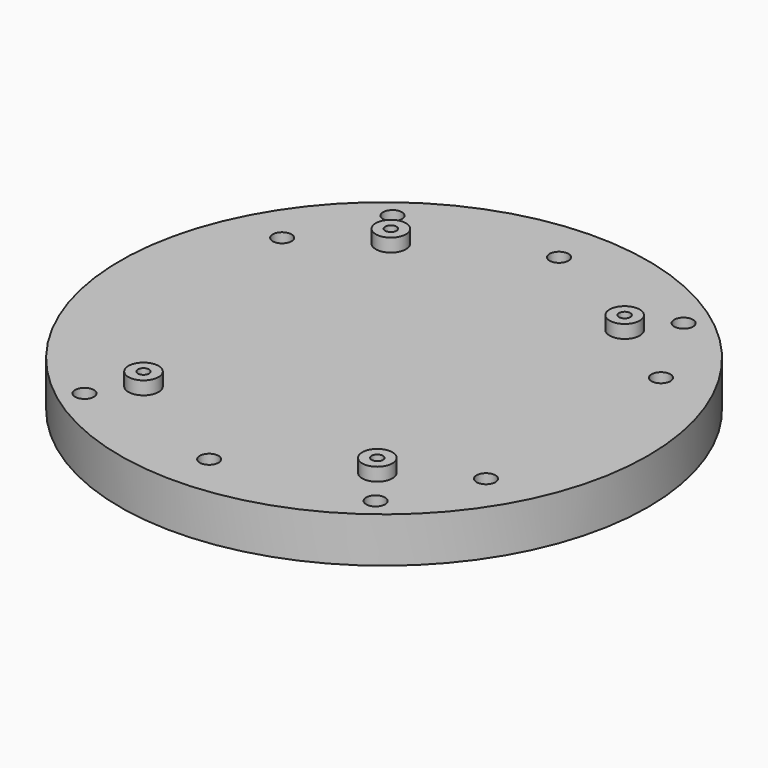
from build123d import *

# Parameters (mm, degrees)
SKETCH_R           = 70
SKETCH_R_2         = 2.5
PAD_DEPTH          = 12
SKETCH001_R        = 1.5
POCKET_DEPTH       = 15
SKETCH002_R        = 4
SKETCH002_R_2      = 1.5
PAD001_DEPTH       = 3.5
SKETCH003_R        = 2.5
POCKET001_DEPTH    = 15
POCKET002_DEPTH    = 5
POLARPATTERN_COUNT = 2


with BuildPart() as part:
    # Sketch → Pad (new body)
    with BuildSketch(Plane.XY):
        Circle(SKETCH_R)
        with Locations((38.6, 51.05)):
            Circle(SKETCH_R_2, mode=Mode.SUBTRACT)
        with Locations((-38.6, 51.05)):
            Circle(SKETCH_R_2, mode=Mode.SUBTRACT)
        with Locations((38.6, -51.05)):
            Circle(SKETCH_R_2, mode=Mode.SUBTRACT)
        with Locations((-38.6, -51.05)):
            Circle(SKETCH_R_2, mode=Mode.SUBTRACT)
    extrude(amount=PAD_DEPTH)

    # Sketch001 (on Face7 of Pad) → Pocket (cut)
    with BuildSketch(Plane.XY.offset(12)):
        with Locations((-31, 41)):
            Circle(SKETCH001_R)
        with Locations((31, 41)):
            Circle(SKETCH001_R)
        with Locations((31, -41)):
            Circle(SKETCH001_R)
        with Locations((-31, -41)):
            Circle(SKETCH001_R)
    extrude(amount=-POCKET_DEPTH, mode=Mode.SUBTRACT)

    # Sketch002 (on Face3 of Pocket) → Pad001 (join)
    with BuildSketch(Plane.XY.offset(12)):
        with Locations((-31, -41)):
            Circle(SKETCH002_R)
        with Locations((-31, -41)):
            Circle(SKETCH002_R_2, mode=Mode.SUBTRACT)
        with Locations((31, -41)):
            Circle(SKETCH002_R)
        with Locations((31, -41)):
            Circle(SKETCH002_R_2, mode=Mode.SUBTRACT)
        with Locations((31, 41)):
            Circle(SKETCH002_R)
        with Locations((31, 41)):
            Circle(SKETCH002_R_2, mode=Mode.SUBTRACT)
        with Locations((-31, 41)):
            Circle(SKETCH002_R)
        with Locations((-31, 41)):
            Circle(SKETCH002_R_2, mode=Mode.SUBTRACT)
    extrude(amount=PAD001_DEPTH)

    # Sketch003 (on Face3 of Pad001) → Pocket001 (cut)
    with BuildSketch(Plane.XY.offset(12)):
        with Locations((0, 58)):
            Circle(SKETCH003_R)
        with Locations((50.229473, 29)):
            Circle(SKETCH003_R)
        with Locations((50.229473, -29)):
            Circle(SKETCH003_R)
        with Locations((0, -58)):
            Circle(SKETCH003_R)
        with Locations((-50.229473, 29)):
            Circle(SKETCH003_R)
    extrude(amount=-POCKET001_DEPTH, mode=Mode.SUBTRACT)

    # Sketch004 (on Face2 of Pocket001) → Pocket002 (cut)
    with BuildSketch(Plane(origin=(0, 0, 0), x_dir=(1, 0, 0), z_dir=(0, 0, -1))):
        Polygon((-35.008085, 53.766274), (-39.156405, 55.518827), (-42.74832, 52.802553), (-42.191915, 48.333726), (-38.043595, 46.581173), (-34.45168, 49.297447), align=None)
        Polygon((-28.513289, 42.880497), (-31.385203, 44.093803), (-33.871914, 42.213306), (-33.486711, 39.119503), (-30.614797, 37.906197), (-28.128086, 39.786694), align=None)
        Polygon((-35.008085, -53.766274), (-34.45168, -49.297447), (-38.043595, -46.581173), (-42.191915, -48.333726), (-42.74832, -52.802553), (-39.156405, -55.518827), align=None)
        Polygon((-28.513289, -42.880497), (-28.128086, -39.786694), (-30.614797, -37.906197), (-33.486711, -39.119503), (-33.871914, -42.213306), (-31.385203, -44.093803), align=None)
    pocket002 = extrude(amount=-POCKET002_DEPTH, mode=Mode.SUBTRACT)

    # PolarPattern: Pocket002 ×2 about axis
    polarpattern_axis = Axis((0, 0, 0), (0, 0, -1))
    for i in range(1, POLARPATTERN_COUNT):
        add(pocket002.rotate(polarpattern_axis, i * 360 / POLARPATTERN_COUNT), mode=Mode.SUBTRACT)


solid = part.part
